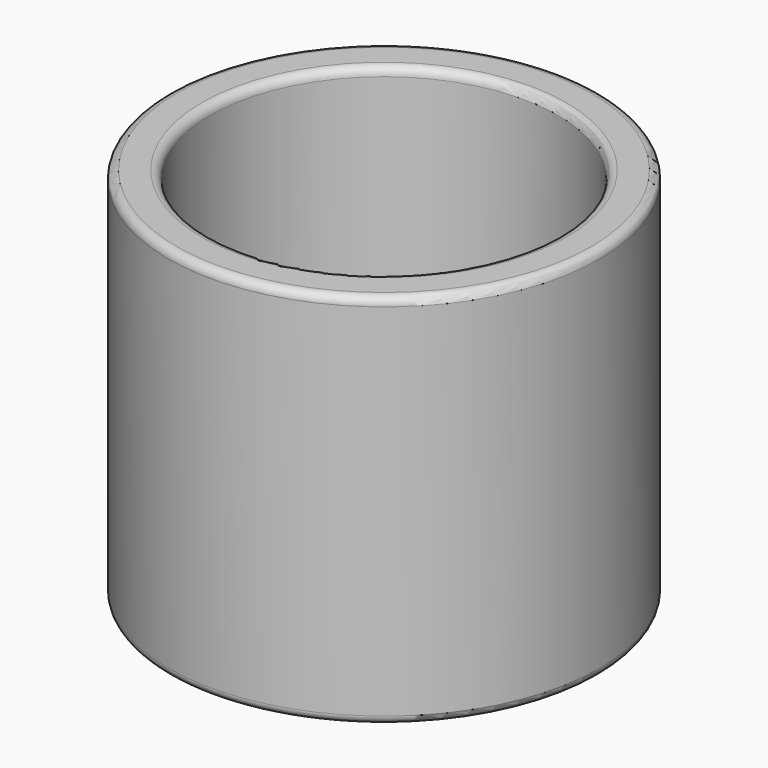
from build123d import *

# Parameters (mm, degrees)
SKETCH_R    = 5.15
SKETCH_R_2  = 4.15
PAD_DEPTH   = 9
FILLET_R    = 0.2
FILLET001_R = 0.2


with BuildPart() as part:
    # Sketch → Pad (new body)
    with BuildSketch(Plane.XY):
        Circle(SKETCH_R)
        Circle(SKETCH_R_2, mode=Mode.SUBTRACT)
    extrude(amount=PAD_DEPTH)

    # Fillet
    fillet_edges = [part.edges().sort_by_distance(p)[0] for p in [
        (-5.15, 0, 9),
        (-4.15, 0, 9),
    ]]
    fillet(fillet_edges, radius=FILLET_R)

    # Fillet001
    fillet001_edges = [part.edges().sort_by_distance(p)[0] for p in [
        (-5.15, 0, 0),
        (-4.15, 0, 0),
    ]]
    fillet(fillet001_edges, radius=FILLET001_R)


solid = part.part
